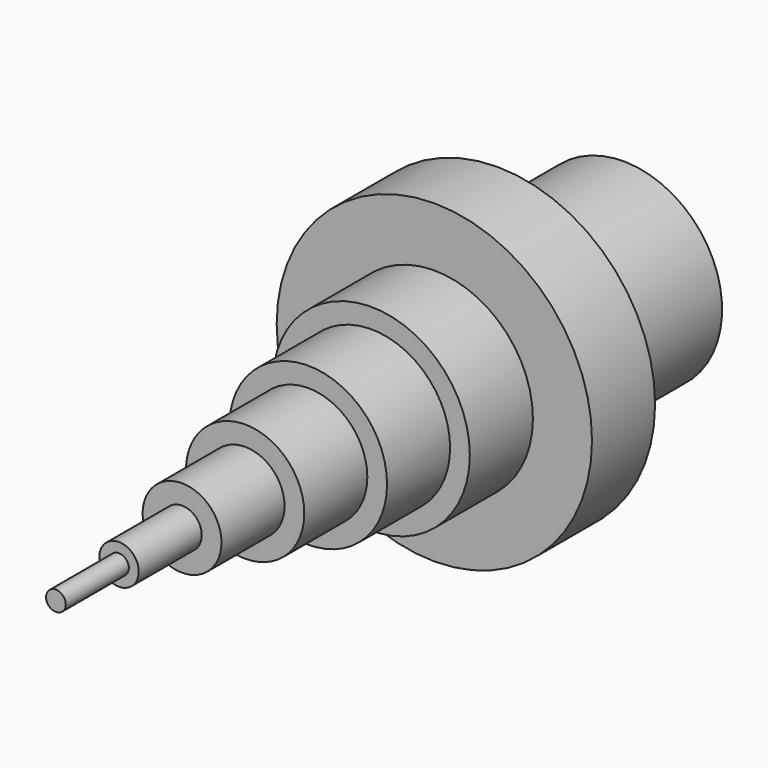
from build123d import *

# Parameters (mm, degrees)
F0_R      = 40
F1_DEPTH  = 20
F2_R      = 25
F3_DEPTH  = 20
F4_R      = 20
F5_DEPTH  = 20
F6_R      = 15
F7_DEPTH  = 20
F8_R      = 10
F9_DEPTH  = 20
F10_R     = 5
F11_DEPTH = 20
F12_R     = 2.5
F13_DEPTH = 20
F14_R     = 25
F15_DEPTH = 40
F16_R     = 20
F17_DEPTH = 40


with BuildPart() as f1:
    # F0 (on Front) → F1 (new body)
    with BuildSketch(Plane.XZ):
        Circle(F0_R)
    extrude(amount=F1_DEPTH)

    # F2 (on face) → F3 (join)
    with BuildSketch(Plane.XZ.offset(20)):
        Circle(F2_R)
    extrude(amount=F3_DEPTH)

    # F4 (on face) → F5 (join)
    with BuildSketch(Plane.XZ.offset(40)):
        Circle(F4_R)
    extrude(amount=F5_DEPTH)

    # F6 (on face) → F7 (join)
    with BuildSketch(Plane.XZ.offset(60)):
        Circle(F6_R)
    extrude(amount=F7_DEPTH)

    # F8 (on face) → F9 (join)
    with BuildSketch(Plane.XZ.offset(80)):
        Circle(F8_R)
    extrude(amount=F9_DEPTH)

    # F10 (on face) → F11 (join)
    with BuildSketch(Plane.XZ.offset(100)):
        Circle(F10_R)
    extrude(amount=F11_DEPTH)

    # F12 (on face) → F13 (join)
    with BuildSketch(Plane.XZ.offset(120)):
        Circle(F12_R)
    extrude(amount=F13_DEPTH)

    # F14 (on face) → F15 (join)
    with BuildSketch(Plane(origin=(0, 0, 0), x_dir=(-1, 0, 0), z_dir=(0, 1, 0))):
        Circle(F14_R)
    extrude(amount=F15_DEPTH)

    # F16 (on face) → F17 (cut)
    with BuildSketch(Plane(origin=(0, 40, 0), x_dir=(-1, 0, 0), z_dir=(0, 1, 0))):
        Circle(F16_R)
    extrude(amount=-F17_DEPTH, mode=Mode.SUBTRACT)


solid = f1.part
